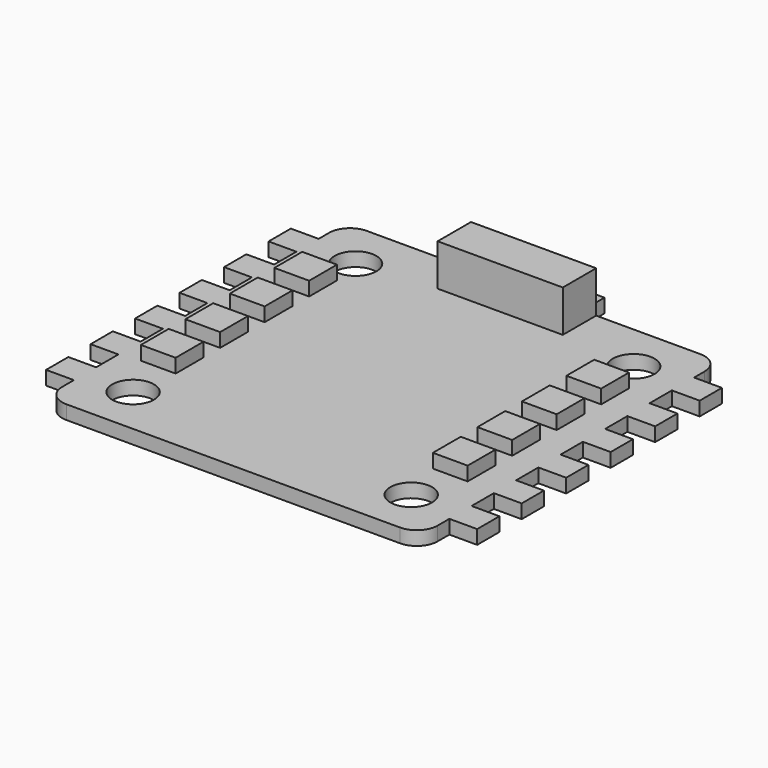
from build123d import *

# Parameters (mm, degrees)
F1_DEPTH = 1
F2_D     = 3
F2_DEPTH = 5
F2_TIP   = 0.9012909285
F3_W     = 2
F3_H     = 2
F4_DEPTH = 1
F5_W     = 9
F5_H     = 3
F6_DEPTH = 3
F7_W     = 2.5
F7_H     = 2.5
F8_DEPTH = 1


with BuildPart() as f1:
    # F0 (on Top) → F1 (new body)
    with BuildSketch(Plane.XY):
        with BuildLine():
            Line((12, 13.5), (-12, 13.5))
            ThreePointArc((-12, 13.5), (-13.0606601718, 13.0606601718), (-13.5, 12))
            Line((-13.5, 12), (-13.5, -12))
            ThreePointArc((-13.5, -12), (-13.0606601718, -13.0606601718), (-12, -13.5))
            Line((-12, -13.5), (12, -13.5))
            ThreePointArc((12, -13.5), (13.0606601718, -13.0606601718), (13.5, -12))
            Line((13.5, -12), (13.5, 12))
            ThreePointArc((13.5, 12), (13.0606601718, 13.0606601718), (12, 13.5))
        make_face()
    extrude(amount=-F1_DEPTH)

    # F2
    with Locations(Plane.XY):
        with Locations((-10, 10), (10, 10), (10, -10), (-10, -10)):
            Hole(F2_D / 2, depth=F2_DEPTH)
            with Locations((0, 0, -(F2_DEPTH + F2_TIP / 2))):  # 118° drill point
                Cone(0, F2_D / 2, F2_TIP, mode=Mode.SUBTRACT)

    # F3 (on face) → F4 (join)
    with BuildSketch(Plane(origin=(0, 0, -1), x_dir=(1, 0, 0), z_dir=(0, 0, -1))):
        with Locations((-14.5, 9.9446508034)):
            Rectangle(F3_W, F3_H)
        with Locations((-14.5, 5.9446508034)):
            Rectangle(F3_W, F3_H)
        with Locations((-14.5, 1.9446508034)):
            Rectangle(F3_W, F3_H)
        with Locations((-14.5, -2.0553491966)):
            Rectangle(F3_W, F3_H)
        with Locations((-14.5, -6.0553491966)):
            Rectangle(F3_W, F3_H)
        with Locations((-14.5, -10.0553491966)):
            Rectangle(F3_W, F3_H)
        with Locations((14.5, 9.9446508034)):
            Rectangle(F3_W, F3_H)
        with Locations((14.5, 5.9446508034)):
            Rectangle(F3_W, F3_H)
        with Locations((14.5, 1.9446508034)):
            Rectangle(F3_W, F3_H)
        with Locations((14.5, -2.0553491966)):
            Rectangle(F3_W, F3_H)
        with Locations((14.5, -6.0553491966)):
            Rectangle(F3_W, F3_H)
        with Locations((14.5, -10.0553491966)):
            Rectangle(F3_W, F3_H)
        with Locations((-2.5, -14.5)):
            Rectangle(F3_W, F3_H)
        with Locations((2.5, -14.5)):
            Rectangle(F3_W, F3_H)
    extrude(amount=-F4_DEPTH)

    # F5 (on face) → F6 (join)
    with BuildSketch(Plane.XY):
        with Locations((0, 12)):
            Rectangle(F5_W, F5_H)
    extrude(amount=F6_DEPTH)

    # F7 (on face) → F8 (join)
    with BuildSketch(Plane.XY):
        with Locations((-10.7858264819, 2.4961141907)):
            Rectangle(F7_W, F7_H)
        with Locations((-10.7858264819, -1.5038858093)):
            Rectangle(F7_W, F7_H)
        with Locations((-10.7858264819, -5.5038858093)):
            Rectangle(F7_W, F7_H)
        with Locations((-10.7858264819, 6.4961141907)):
            Rectangle(F7_W, F7_H)
        with Locations((10.2141735181, 6.4961141907)):
            Rectangle(F7_W, F7_H)
        with Locations((10.2141735181, 2.4961141907)):
            Rectangle(F7_W, F7_H)
        with Locations((10.2141735181, -1.5038858093)):
            Rectangle(F7_W, F7_H)
        with Locations((10.2141735181, -5.5038858093)):
            Rectangle(F7_W, F7_H)
    extrude(amount=F8_DEPTH)


solid = f1.part
